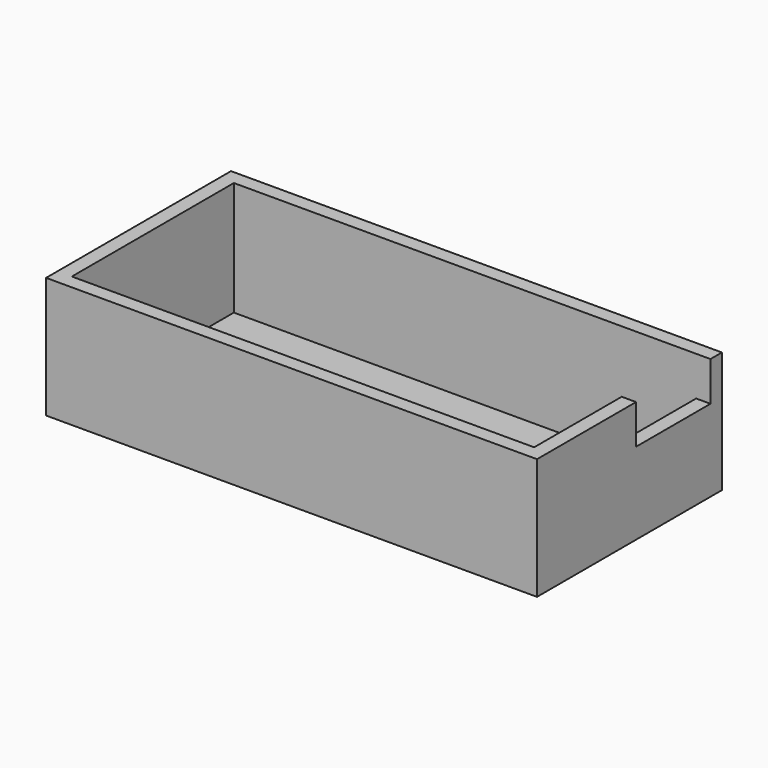
from build123d import *

# Parameters (mm, degrees)
F0_W     = 68.6
F0_H     = 32.3
F1_DEPTH = 1
F2_W     = 68.6
F2_H     = 32.3
F2_W_2   = 64.6
F2_H_2   = 28.3
F3_DEPTH = 15.94
F4_W     = 13
F4_H     = 5.5
F5_DEPTH = 25


with BuildPart() as f1:
    # F0 (on Top) → F1 (new body)
    with BuildSketch(Plane.XY):
        with Locations((34.3, 16.15)):
            Rectangle(F0_W, F0_H)
    extrude(amount=F1_DEPTH)

    # F2 (on face) → F3 (join)
    with BuildSketch(Plane.XY.offset(1)):
        with Locations((34.3, 16.15)):
            Rectangle(F2_W, F2_H)
        with Locations((34.3, 16.15)):
            Rectangle(F2_W_2, F2_H_2, mode=Mode.SUBTRACT)
    extrude(amount=F3_DEPTH)

    # F4 (on face) → F5 (cut)
    with BuildSketch(Plane.YZ.offset(68.6)):
        with Locations((23.8, 14.19)):
            Rectangle(F4_W, F4_H)
    extrude(amount=-F5_DEPTH, mode=Mode.SUBTRACT)


solid = f1.part
